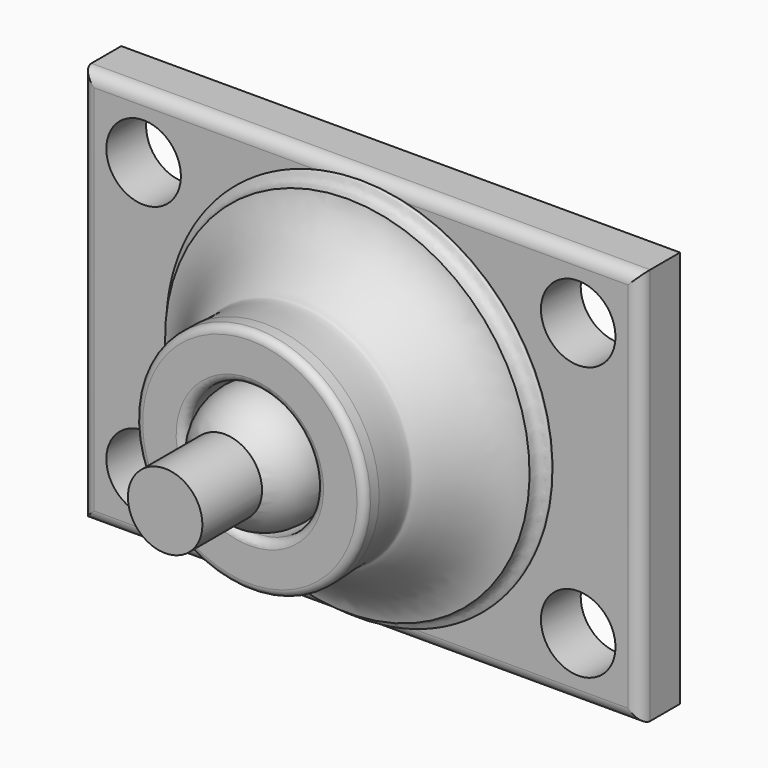
from build123d import *

# Parameters (mm, degrees)
F2_R     = 3.81
F3_DEPTH = 12.7
F6_W     = 57.15
F6_H     = 40.64
F6_R     = 3.81
F7_DEPTH = 5.08
F10_R    = 1.27
F11_R    = 0.762


with BuildPart() as f1:
    # F0 (on Front) → F1 (revolve)
    with BuildSketch(Plane.XZ):
        with BuildLine():
            Line((0, 6.35), (0, -6.35))
            ThreePointArc((0, -6.35), (6.35, 0), (0, 6.35))
        make_face()
    revolve(axis=Axis((0, 0, 0), (0, 0, -1)))

    # F2 (on Front) → F3 (join)
    with BuildSketch(Plane.XZ):
        Circle(F2_R)
    extrude(amount=F3_DEPTH)


with BuildPart() as f5:
    # F4 (on Right) → F5 (revolve)
    with BuildSketch(Plane.YZ):
        with BuildLine():
            Line((0, 11.7234318889), (-1.8727479448, 11.7234318889))
            Line((-1.8727479448, 11.7234318889), (-1.8727479448, 0))
            Line((-1.8727479448, 0), (12.3258520552, 0))
            Line((12.3258520552, 0), (12.3258520552, 19.6011976902))
            add(Edge.make_bspline(
                [(10.5860281212, 18.644208125), (12.3258520552, 18.644208125), (11.5553371343, 20.0368603166), (12.3258520552, 19.6011976902)],
                knots=[0, 0, 0, 0, 1.9856526255, 1.9856526255, 1.9856526255, 1.9856526255], degree=3))
            add(Edge.make_bspline(
                [(0, 11.7234318889), (1.8657619774, 11.5842229728), (4.362013744, 11.4468729356), (4.2601069675, 12.514742272), (10.1372654945, 15.5538044733), (10.5860281212, 18.644208125)],
                knots=[0, 0, 0, 0, 0.3490639994, 0.4908098017, 1, 1, 1, 1], degree=3))
        make_face()
    revolve(axis=Axis((0, 5.2265520552, 0), (0, -1, 0)))

    # F8 (on face) → F9 (revolve, cut)
    with BuildSketch(Plane.XZ):
        with BuildLine():
            Line((0, 6.35), (0, -6.35))
            Line((0, -6.35), (0, -6.858))
            ThreePointArc((0, -6.858), (6.858, 0), (0, 6.858))
            Line((0, 6.858), (0, 6.35))
        make_face()
    revolve(axis=Axis((0, 0, 0), (0, 0, 1)), mode=Mode.SUBTRACT)

    # F11
    f11_edges = [f5.edges().sort_by_distance(p)[0] for p in [
        (0, -1.872748, 6.597346),
        (0, -1.872748, -11.723432),
    ]]
    fillet(f11_edges, radius=F11_R)


with BuildPart() as f7:
    # F6 (on face) → F7 (new body)
    with BuildSketch(Plane(origin=(0, 12.3258520552, 0), x_dir=(-1, 0, 0), z_dir=(0, 1, 0))):
        Rectangle(F6_W, F6_H)
        with Locations((-22.225, -13.97)):
            Circle(F6_R, mode=Mode.SUBTRACT)
        with Locations((22.225, -13.97)):
            Circle(F6_R, mode=Mode.SUBTRACT)
        with Locations((-22.225, 13.97)):
            Circle(F6_R, mode=Mode.SUBTRACT)
        with Locations((22.225, 13.97)):
            Circle(F6_R, mode=Mode.SUBTRACT)
    extrude(amount=F7_DEPTH)

    # F10
    f10_edges = [f7.edges().sort_by_distance(p)[0] for p in [
        (0, 12.325852, 20.32),
        (-28.575, 12.325852, 0),
        (0, 12.325852, -20.32),
        (28.575, 12.325852, 0),
    ]]
    fillet(f10_edges, radius=F10_R)


solid = Compound([f1.part, f5.part, f7.part])
